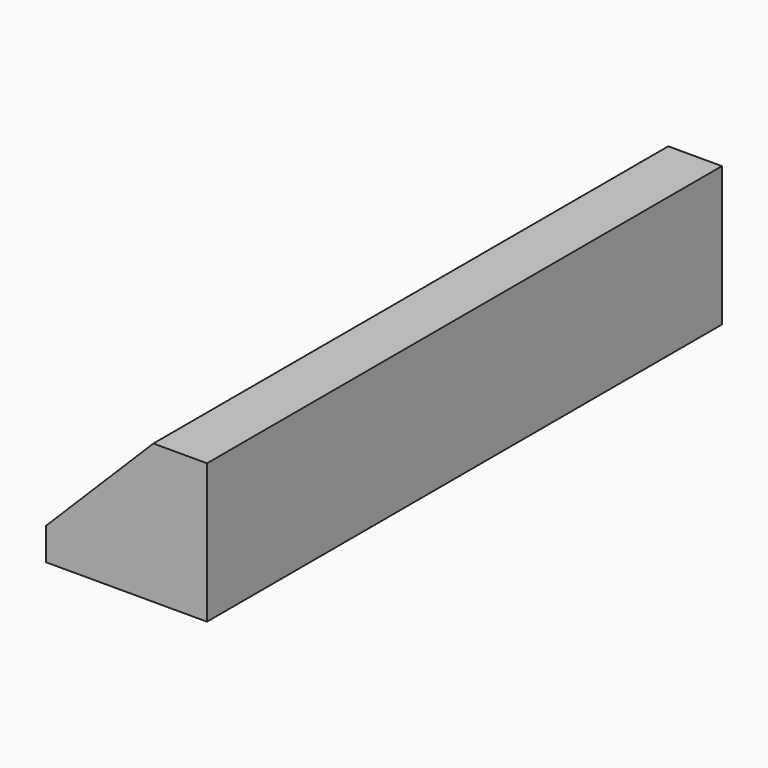
from build123d import *

# Parameters (mm, degrees)
F0_W     = 15.24
F0_H     = 3.302
F1_DEPTH = 3.81
F2_SIZE  = 2.54


with BuildPart() as f1:
    # F0 (on Right) → F1 (new body)
    with BuildSketch(Plane.YZ):
        Rectangle(F0_W, F0_H)
    extrude(amount=F1_DEPTH)

    # F2
    f2_edges = [f1.edges().sort_by_distance(p)[0] for p in [
        (0, 0, 1.651),
    ]]
    chamfer(f2_edges, length=F2_SIZE)


solid = f1.part
